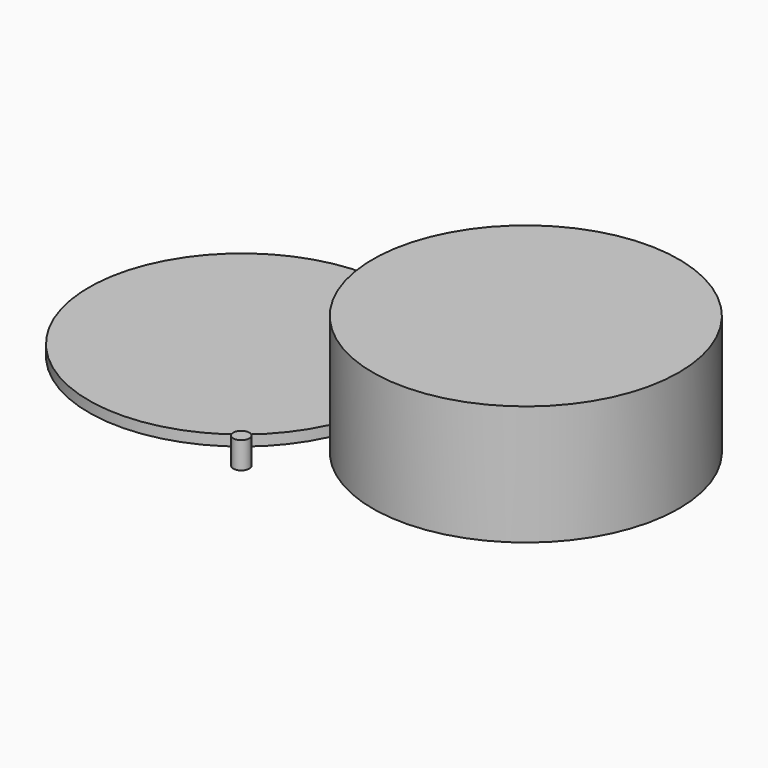
from build123d import *

# Parameters (mm, degrees)
F0_R     = 73.025
F1_DEPTH = 57.15
F2_R     = 73.025
F3_DEPTH = 5.08
F5_DEPTH = 50.8
F7_DEPTH = 50.8
F8_R     = 3.81
F9_DEPTH = 12.7


with BuildPart() as f1:
    # F0 (on Top) → F1 (new body)
    with BuildSketch(Plane.XY):
        Circle(F0_R)
    extrude(amount=F1_DEPTH)

    # F4 (on Top) → F5 (cut)
    with BuildSketch(Plane.XY):
        with BuildLine():
            Line((0, -7.62), (-63.214714, -7.62))
            ThreePointArc((-63.214714, -7.62), (-0.173572, -63.5), (62.86757, -7.62))
            Line((62.86757, -7.62), (0, -7.62))
        make_face()
    extrude(amount=F5_DEPTH, mode=Mode.SUBTRACT)

    # F6 (on Top) → F7 (cut)
    with BuildSketch(Plane.XY):
        with BuildLine():
            Line((-63.5, 7.62), (0, 7.62))
            Line((0, 7.62), (63.5, 7.62))
            ThreePointArc((63.5, 7.62), (0, 63.579766), (-63.5, 7.62))
        make_face()
    extrude(amount=F7_DEPTH, mode=Mode.SUBTRACT)


with BuildPart() as f3:
    # F2 (on Top) → F3 (new body)
    with BuildSketch(Plane.XY):
        with Locations((-136.980068, 2.059609)):
            Circle(F2_R)
    extrude(amount=-F3_DEPTH)


with BuildPart() as f9:
    # F8 (on Top) → F9 (new body)
    with BuildSketch(Plane.XY):
        with Locations((-75.818039, -74.818298)):
            Circle(F8_R)
    extrude(amount=F9_DEPTH)


solid = Compound([f1.part, f3.part, f9.part])
